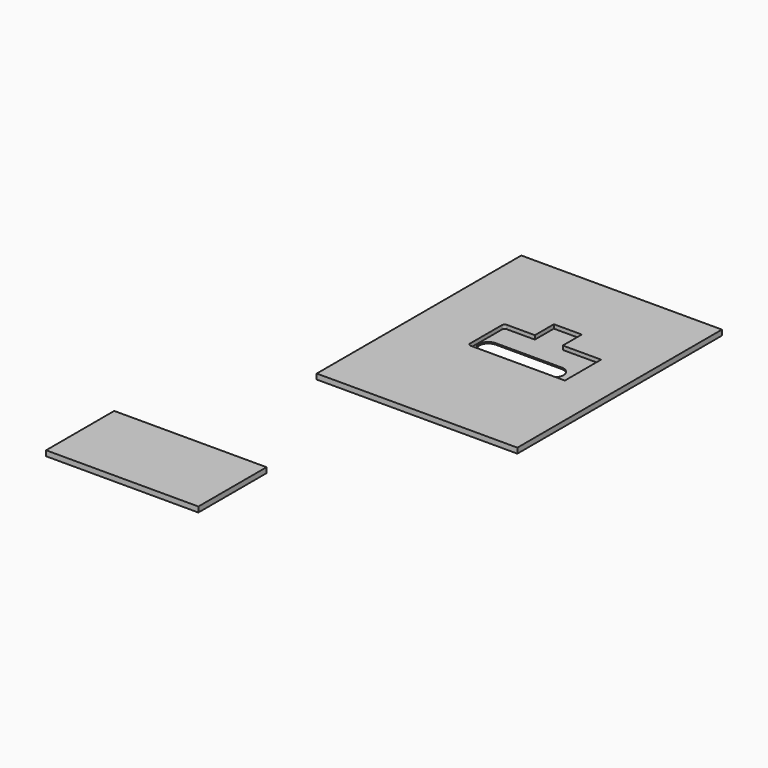
from build123d import *

# Parameters (mm, degrees)
F5_W     = 718
F5_H     = 915
F1_DEPTH = 19
F5_W_2   = 545
F5_H_2   = 304.8
F2_DEPTH = 30
F0_W     = 100
F0_H     = 85
F3_DEPTH = 5
F4_START = 5
F4_DEPTH = 40


with BuildPart() as f1:
    # F5 (on Top) → F1 (new body)
    with BuildSketch(Plane.XY):
        with Locations((359, 457.5)):
            Rectangle(F5_W, F5_H)
    extrude(amount=F1_DEPTH)

    # F0 (on face) → F2 (cut)
    with BuildSketch(Plane.XY):
        with BuildLine():
            ThreePointArc((223, 410), (225.3431457505, 404.3431457505), (231, 402))
            Line((231, 402), (568, 402))
            Line((568, 402), (568, 560))
            Line((568, 560), (231, 560))
            ThreePointArc((231, 560), (225.3431457505, 557.6568542495), (223, 552))
            Line((223, 552), (223, 410))
        make_face()
        with BuildLine():
            Line((495.5, 412), (258.5, 412))
            ThreePointArc((258.5, 412), (235.5190296114, 421.5190296114), (226, 444.5))
            ThreePointArc((226, 444.5), (235.5190296114, 467.4809703886), (258.5, 477))
            Line((258.5, 477), (495.5, 477))
            ThreePointArc((495.5, 477), (518.4809703886, 467.4809703886), (528, 444.5))
            ThreePointArc((528, 444.5), (518.4809703886, 421.5190296114), (495.5, 412))
        make_face(mode=Mode.SUBTRACT)
        with BuildLine():
            ThreePointArc((226, 444.5), (235.5190296114, 421.5190296114), (258.5, 412))
            Line((258.5, 412), (495.5, 412))
            ThreePointArc((495.5, 412), (518.4809703886, 421.5190296114), (528, 444.5))
            ThreePointArc((528, 444.5), (518.4809703886, 467.4809703886), (495.5, 477))
            Line((495.5, 477), (258.5, 477))
            ThreePointArc((258.5, 477), (235.5190296114, 467.4809703886), (226, 444.5))
        make_face()
        with BuildLine():
            ThreePointArc((228, 444.5), (236.9332431738, 466.0667568262), (258.5, 475))
            Line((258.5, 475), (495.5, 475))
            ThreePointArc((495.5, 475), (517.0667568262, 466.0667568262), (526, 444.5))
            ThreePointArc((526, 444.5), (517.0667568262, 422.9332431738), (495.5, 414))
            Line((495.5, 414), (258.5, 414))
            ThreePointArc((258.5, 414), (236.9332431738, 422.9332431738), (228, 444.5))
        make_face(mode=Mode.SUBTRACT)
        with BuildLine():
            Line((495.5, 475), (258.5, 475))
            ThreePointArc((258.5, 475), (236.9332431738, 466.0667568262), (228, 444.5))
            ThreePointArc((228, 444.5), (236.9332431738, 422.9332431738), (258.5, 414))
            Line((258.5, 414), (495.5, 414))
            ThreePointArc((495.5, 414), (517.0667568262, 422.9332431738), (526, 444.5))
            ThreePointArc((526, 444.5), (517.0667568262, 466.0667568262), (495.5, 475))
        make_face()
        with BuildLine():
            Line((568, 402), (231, 402))
            ThreePointArc((231, 402), (225.3431457505, 404.3431457505), (223, 410))
            Line((223, 410), (223, 552))
            ThreePointArc((223, 552), (225.3431457505, 557.6568542495), (231, 560))
            Line((231, 560), (568, 560))
            Line((568, 560), (568, 562))
            Line((568, 562), (431, 562))
            Line((431, 562), (331, 562))
            Line((331, 562), (231, 562))
            ThreePointArc((231, 562), (223.9289321881, 559.0710678119), (221, 552))
            Line((221, 552), (221, 410))
            ThreePointArc((221, 410), (223.9289321881, 402.9289321881), (231, 400))
            Line((231, 400), (568, 400))
            Line((568, 400), (568, 402))
        make_face()
    extrude(amount=F2_DEPTH, mode=Mode.SUBTRACT)

    # F0 (on face) → F3 (join)
    with BuildSketch(Plane.XY):
        with BuildLine():
            ThreePointArc((223, 410), (225.3431457505, 404.3431457505), (231, 402))
            Line((231, 402), (568, 402))
            Line((568, 402), (568, 560))
            Line((568, 560), (231, 560))
            ThreePointArc((231, 560), (225.3431457505, 557.6568542495), (223, 552))
            Line((223, 552), (223, 410))
        make_face()
        with BuildLine():
            Line((495.5, 412), (258.5, 412))
            ThreePointArc((258.5, 412), (235.5190296114, 421.5190296114), (226, 444.5))
            ThreePointArc((226, 444.5), (235.5190296114, 467.4809703886), (258.5, 477))
            Line((258.5, 477), (495.5, 477))
            ThreePointArc((495.5, 477), (518.4809703886, 467.4809703886), (528, 444.5))
            ThreePointArc((528, 444.5), (518.4809703886, 421.5190296114), (495.5, 412))
        make_face(mode=Mode.SUBTRACT)
        with BuildLine():
            Line((568, 402), (231, 402))
            ThreePointArc((231, 402), (225.3431457505, 404.3431457505), (223, 410))
            Line((223, 410), (223, 552))
            ThreePointArc((223, 552), (225.3431457505, 557.6568542495), (231, 560))
            Line((231, 560), (568, 560))
            Line((568, 560), (568, 562))
            Line((568, 562), (431, 562))
            Line((431, 562), (331, 562))
            Line((331, 562), (231, 562))
            ThreePointArc((231, 562), (223.9289321881, 559.0710678119), (221, 552))
            Line((221, 552), (221, 410))
            ThreePointArc((221, 410), (223.9289321881, 402.9289321881), (231, 400))
            Line((231, 400), (568, 400))
            Line((568, 400), (568, 402))
        make_face()
        with Locations((381, 604.5)):
            Rectangle(F0_W, F0_H)
    extrude(amount=F3_DEPTH)

    # F0 (on face) → F4 (cut)
    with BuildSketch(Plane.XY.offset(F4_START)):
        with Locations((381, 604.5)):
            Rectangle(F0_W, F0_H)
    extrude(amount=F4_DEPTH, mode=Mode.SUBTRACT)


with BuildPart() as f1b:
    # F5 (on Top) → F1, piece 2 (new body)
    with BuildSketch(Plane.XY):
        with Locations((-28.0601912737, -682.6046873093)):
            Rectangle(F5_W_2, F5_H_2)
    extrude(amount=F1_DEPTH)


solid = Compound([f1.part, f1b.part])
